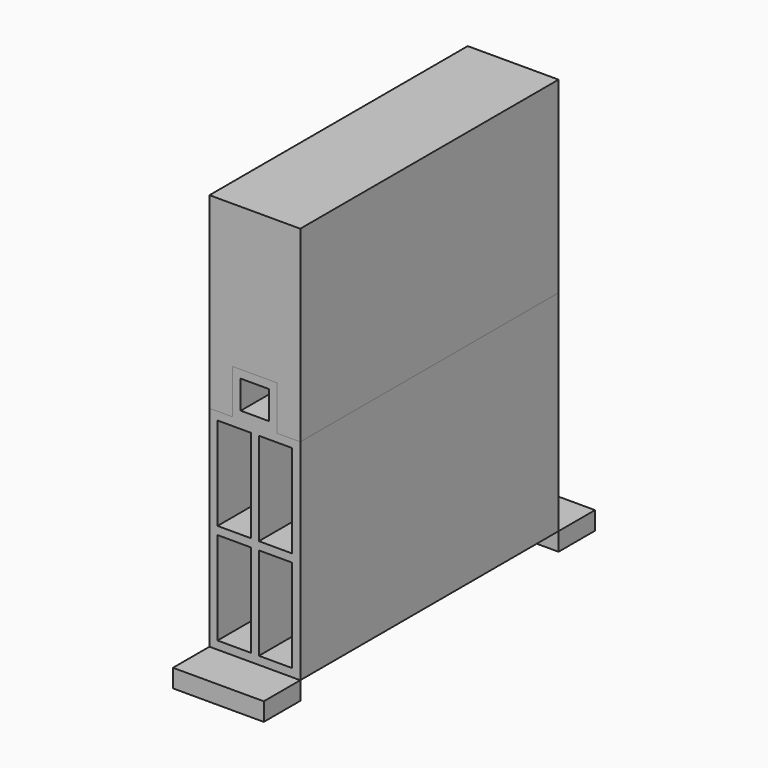
from build123d import *

# Parameters (mm, degrees)
F0_W     = 8.25
F0_H     = 23
F0_W_2   = 11
F0_H_2   = 11
F0_W_3   = 7
F0_H_3   = 7
F1_DEPTH = 80
F3_DEPTH = 80
F4_W     = 22.5
F4_H     = 11.3
F5_DEPTH = 4.5


with BuildPart() as f1:
    # F0 (on Front) → F1 (new body)
    with BuildSketch(Plane.XZ):
        Polygon((11.25, -26), (11.25, 26), (5.5, 26), (-5.5, 26), (-11.25, 26), (-11.25, -26), align=None)
        with Locations((-5.125, -12.5)):
            Rectangle(F0_W, F0_H, mode=Mode.SUBTRACT)
        with Locations((5.125, -12.5)):
            Rectangle(F0_W, F0_H, mode=Mode.SUBTRACT)
        with Locations((-5.125, 12.5)):
            Rectangle(F0_W, F0_H, mode=Mode.SUBTRACT)
        with Locations((5.125, 12.5)):
            Rectangle(F0_W, F0_H, mode=Mode.SUBTRACT)
        with Locations((0, 31.5)):
            Rectangle(F0_W_2, F0_H_2)
        with Locations((0, 31.5)):
            Rectangle(F0_W_3, F0_H_3, mode=Mode.SUBTRACT)
    extrude(amount=F1_DEPTH)


with BuildPart() as f3:
    # F2 (on Front) → F3 (new body)
    with BuildSketch(Plane.XZ):
        Polygon((-11.25, 26), (-5.5, 26), (-5.5, 37), (5.5, 37), (5.5, 26), (11.25, 26), (11.25, 72.5), (-11.25, 72.5), align=None)
    extrude(amount=F3_DEPTH)


with BuildPart() as f5:
    # F4 (on face) → F5 (new body)
    with BuildSketch(Plane(origin=(0, 0, -26), x_dir=(1, 0, 0), z_dir=(0, 0, -1))):
        with Locations((0, -5.65)):
            Rectangle(F4_W, F4_H)
        with Locations((0, 85.65)):
            Rectangle(F4_W, F4_H)
    extrude(amount=F5_DEPTH)


solid = Compound([f1.part, f3.part, f5.part])
